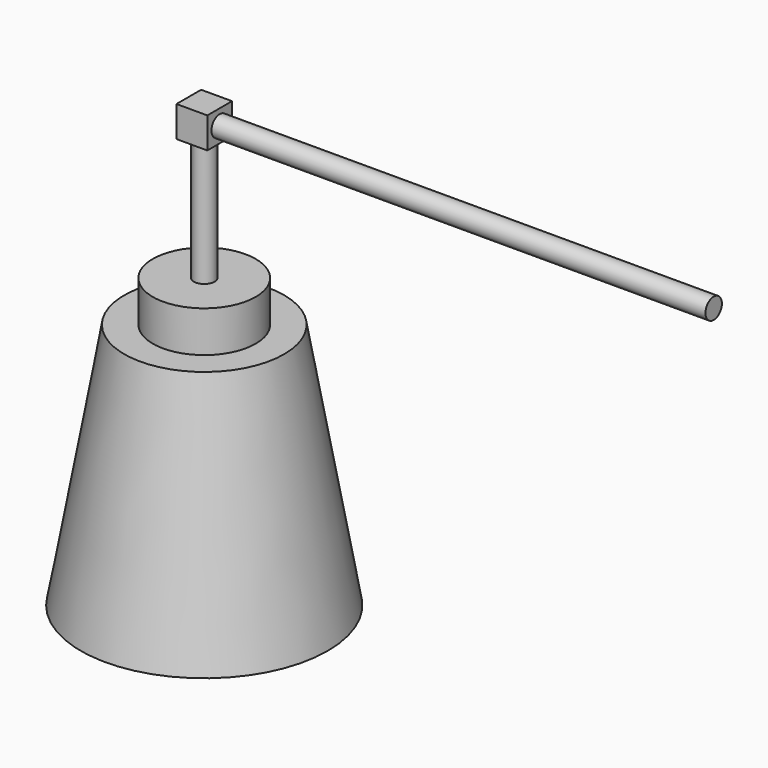
from build123d import *

# Parameters (mm, degrees)
F0_R     = 76.2
F1_DEPTH = 152.4
F1_TAPER = 10
F2_R     = 31.75
F3_DEPTH = 25.4
F4_R     = 6.35
F5_DEPTH = 76.2
F6_W     = 19.05
F6_H     = 19.05
F6_R     = 6.35
F7_DEPTH = 19.05
F8_R     = 6.35
F9_DEPTH = 304.8


with BuildPart() as f1:
    # F0 (on Top) → F1 (new body)
    with BuildSketch(Plane.XY):
        Circle(F0_R)
    extrude(amount=F1_DEPTH, taper=F1_TAPER)

    # F2 (on face) → F3 (join)
    with BuildSketch(Plane.XY.offset(152.4)):
        Circle(F2_R)
    extrude(amount=F3_DEPTH)

    # F4 (on face) → F5 (join)
    with BuildSketch(Plane.XY.offset(177.8)):
        Circle(F4_R)
    extrude(amount=F5_DEPTH)

    # F6 (on face) → F7 (join)
    with BuildSketch(Plane.XY.offset(254)):
        Rectangle(F6_W, F6_H)
        Circle(F6_R, mode=Mode.SUBTRACT)
        Circle(F6_R)
    extrude(amount=F7_DEPTH)

    # F8 (on face) → F9 (join)
    with BuildSketch(Plane.YZ.offset(9.525)):
        with Locations((0, 263.525)):
            Circle(F8_R)
    extrude(amount=F9_DEPTH)


solid = f1.part
